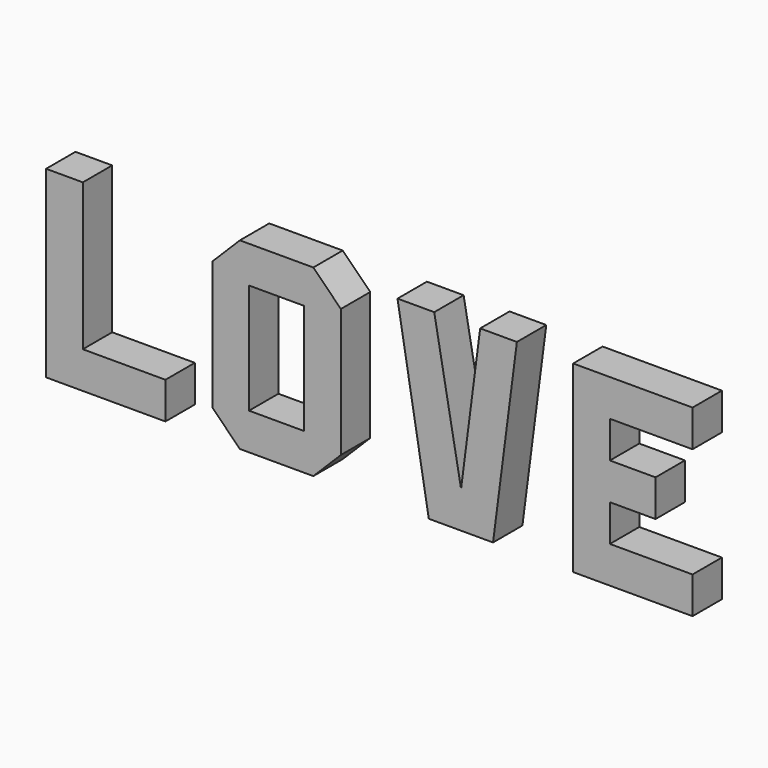
from build123d import *

# Parameters (mm, degrees)
F1_DEPTH = 200
F0_W     = 300
F0_H     = 600
F2_DEPTH = 200


with BuildPart() as f1:
    # F0 (on Front) → F1 (new body)
    with BuildSketch(Plane.XZ):
        Polygon((0, 1000), (0, 0), (650, 0), (650, 200), (200, 200), (200, 1000), align=None)
        Polygon((2113.484427, 1000), (1913.484427, 1000), (2083.625296, 0), (2433.625296, 0), (2563.484427, 1003.546355), (2363.484427, 1003.546355), (2259.505342, 200), align=None)
        Polygon((3519.834609, 1000), (2869.834609, 1000), (2869.834609, 0), (3519.834609, 0), (3519.834609, 200), (3069.834609, 200), (3069.834609, 400), (3318.40156, 400), (3318.40156, 600), (3069.834609, 600), (3069.834609, 800), (3519.834609, 800), align=None)
    extrude(amount=F1_DEPTH)


with BuildPart() as f2:
    # F0 (on Front) → F2 (new body)
    with BuildSketch(Plane.XZ):
        Polygon((0, 1000), (0, 0), (650, 0), (650, 200), (200, 200), (200, 1000), align=None)
        Polygon((905.03087, 150), (1055.03087, 0), (1455.03087, 0), (1605.03087, 150), (1605.03087, 850), (1455.03087, 1000), (1055.03087, 1000), (905.03087, 850), align=None)
        with Locations((1255.03087, 499.796687)):
            Rectangle(F0_W, F0_H, mode=Mode.SUBTRACT)
        Polygon((2113.484427, 1000), (1913.484427, 1000), (2083.625296, 0), (2433.625296, 0), (2563.484427, 1003.546355), (2363.484427, 1003.546355), (2259.505342, 200), align=None)
        Polygon((3519.834609, 1000), (2869.834609, 1000), (2869.834609, 0), (3519.834609, 0), (3519.834609, 200), (3069.834609, 200), (3069.834609, 400), (3318.40156, 400), (3318.40156, 600), (3069.834609, 600), (3069.834609, 800), (3519.834609, 800), align=None)
    extrude(amount=F2_DEPTH)


solid = Compound([f1.part, f2.part])
